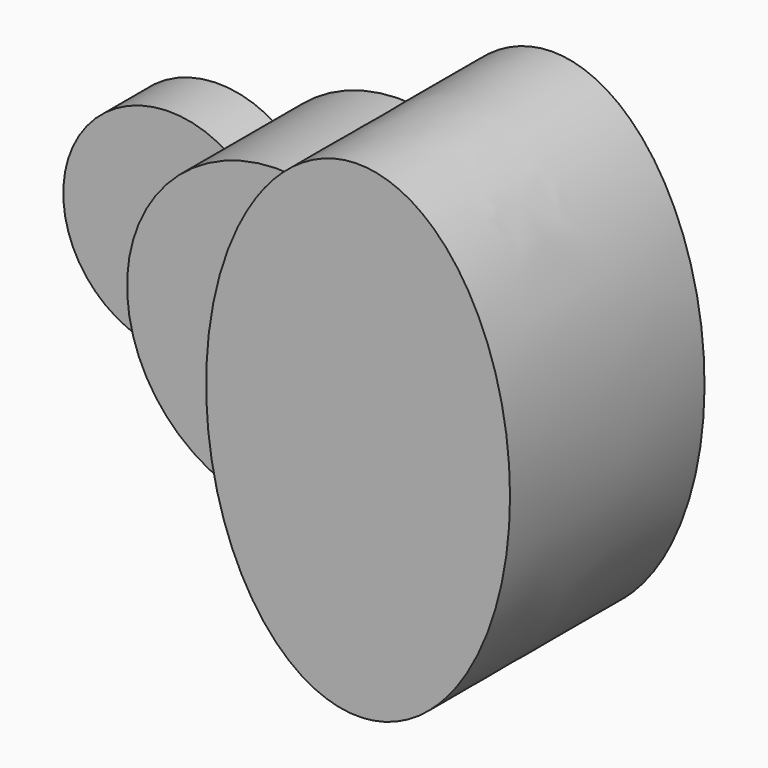
from build123d import *

# Parameters (mm, degrees)
F1_DEPTH = 25.4
F2_DEPTH = 63.5
F3_DEPTH = 101.6


with BuildPart() as f1:
    # F0 (on Front) → F1 (new body)
    with BuildSketch(Plane.XZ):
        with BuildLine():
            ThreePointArc((-51.59375, -37.0180356169), (-60.4501990278, -19.4428248333), (-63.5, 0))
            ThreePointArc((-63.5, 0), (-60.4501990278, 19.4428248333), (-51.59375, 37.0180356169))
            ThreePointArc((-51.59375, 37.0180356169), (-120.65, 0), (-51.59375, -37.0180356169))
        make_face()
    extrude(amount=F1_DEPTH)

    # F0 (on Front) → F2 (join)
    with BuildSketch(Plane.XZ):
        with BuildLine():
            Line((-31.75, 0), (0, 0))
            add(Edge.make_bspline(
                [(13.2439655959, 62.1035214404), (0, 34.6669399309), (0, 0)],
                knots=[0.9131508081, 0.9131508081, 0.9131508081, 1.5707963268, 1.5707963268, 1.5707963268], degree=2, weights=[1, 0.9464231645, 1]))
            ThreePointArc((13.2439655959, 62.1035214404), (-22.9128106244, 59.2220660674), (-51.59375, 37.0180356169))
            ThreePointArc((-51.59375, 37.0180356169), (-37.0237934934, 21.0006510316), (-31.75, 0))
        make_face()
        with BuildLine():
            Line((-63.5, 0), (-31.75, 0))
            ThreePointArc((-31.75, 0), (-37.0237934934, 21.0006510316), (-51.59375, 37.0180356169))
            ThreePointArc((-51.59375, 37.0180356169), (-60.4501990278, 19.4428248333), (-63.5, 0))
        make_face()
        with BuildLine():
            ThreePointArc((-51.59375, -37.0180356169), (-37.0237934934, -21.0006510316), (-31.75, 0))
            Line((-31.75, 0), (-63.5, 0))
            ThreePointArc((-63.5, 0), (-60.4501990278, -19.4428248333), (-51.59375, -37.0180356169))
        make_face()
        with BuildLine():
            add(Edge.make_bspline(
                [(0, 0), (0, -34.6669399309), (13.2439655959, -62.1035214404)],
                knots=[1.5707963268, 1.5707963268, 1.5707963268, 2.2284418454, 2.2284418454, 2.2284418454], degree=2, weights=[1, 0.9464231645, 1]))
            Line((0, 0), (-31.75, 0))
            ThreePointArc((-31.75, 0), (-37.0237934934, -21.0006510316), (-51.59375, -37.0180356169))
            ThreePointArc((-51.59375, -37.0180356169), (-22.9128106244, -59.2220660674), (13.2439655959, -62.1035214404))
        make_face()
    extrude(amount=F2_DEPTH)

    # F0 (on Front) → F3 (join)
    with BuildSketch(Plane.XZ):
        with BuildLine():
            add(Edge.make_bspline(
                [(13.2439655959, 62.1035214404), (0, 34.6669399309), (0, 0)],
                knots=[0.9131508081, 0.9131508081, 0.9131508081, 1.5707963268, 1.5707963268, 1.5707963268], degree=2, weights=[1, 0.9464231645, 1]))
            add(Edge.make_bspline(
                [(0, 0), (0, -34.6669399309), (13.2439655959, -62.1035214404)],
                knots=[1.5707963268, 1.5707963268, 1.5707963268, 2.2284418454, 2.2284418454, 2.2284418454], degree=2, weights=[1, 0.9464231645, 1]))
            ThreePointArc((13.2439655959, -62.1035214404), (49.3621404284, -39.9453262889), (63.5, 0))
            ThreePointArc((63.5, 0), (49.3621404284, 39.9453262889), (13.2439655959, 62.1035214404))
        make_face()
        with BuildLine():
            add(Edge.make_bspline(
                [(63.5, 101.6), (32.3093875408, 101.6), (13.2439655959, 62.1035214404)],
                knots=[0, 0, 0, 0.9131508081, 0.9131508081, 0.9131508081], degree=2, weights=[1, 0.8975675831, 1]))
            ThreePointArc((13.2439655959, 62.1035214404), (49.3621404284, 39.9453262889), (63.5, 0))
            Line((63.5, 0), (63.5, 101.6))
        make_face()
        with BuildLine():
            ThreePointArc((63.5, 0), (49.3621404284, -39.9453262889), (13.2439655959, -62.1035214404))
            add(Edge.make_bspline(
                [(13.2439655959, -62.1035214404), (75.5537087854, -191.1861844445), (120.4955415237, -44.7930922222), (165.437374262, 101.6), (63.5, 101.6)],
                knots=[2.2284418454, 2.2284418454, 2.2284418454, 4.2558135763, 4.2558135763, 6.2831853072, 6.2831853072, 6.2831853072], degree=2, weights=[1, 0.5287358074, 1, 0.5287358074, 1]))
            Line((63.5, 101.6), (63.5, 0))
        make_face()
    extrude(amount=F3_DEPTH)


solid = f1.part
